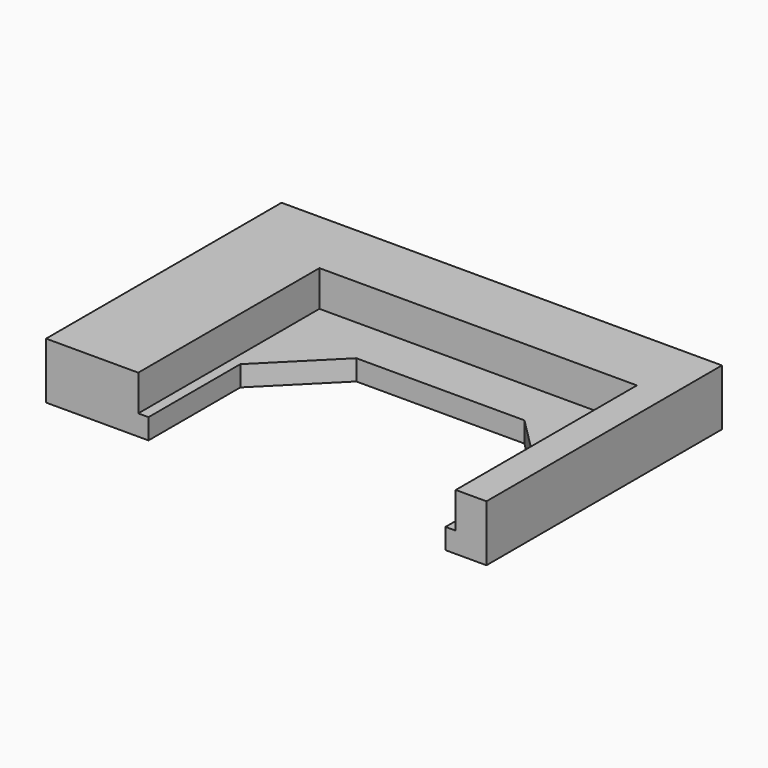
from build123d import *

# Parameters (mm, degrees)
F1_DEPTH = 3.5
F2_DEPTH = 2
F3_DEPTH = 1.5


with BuildPart() as f1:
    # F0 (on Top) → F1 (new body, symmetric)
    with BuildSketch(Plane.XY):
        Polygon((15.5, 13.61), (15.5, -8.5), (18.5, -8.5), (18.5, 20.237967), (-24.5, 20.237967), (-24.5, -8.5), (-15.5, -8.5), (-15.5, 13.61), align=None)
    extrude(amount=F1_DEPTH, both=True)

    # F0 (on Top) → F2 (join)
    with BuildSketch(Plane.XY):
        Polygon((8.207107, 9), (14.5, 2.707107), (14.5, -8.5), (15.5, -8.5), (15.5, 13.61), (-15.5, 13.61), (-15.5, -8.5), (-14.5, -8.5), (-14.5, 2.707107), (-8.207107, 9), align=None)
    extrude(amount=-F2_DEPTH)

    # F1_face (on face) → F3 (cut)
    with BuildSketch(Plane(origin=(-6.736408, 9.996449, -3.5), x_dir=(1, 0, 0), z_dir=(0, 0, -1))):
        Polygon((22.236408, 18.496449), (22.236408, -3.613551), (-8.763592, -3.613551), (-8.763592, 18.496449), (-17.763592, 18.496449), (-17.763592, -10.241518), (25.236408, -10.241518), (25.236408, 18.496449), align=None)
    extrude(amount=-F3_DEPTH, mode=Mode.SUBTRACT)


solid = f1.part
